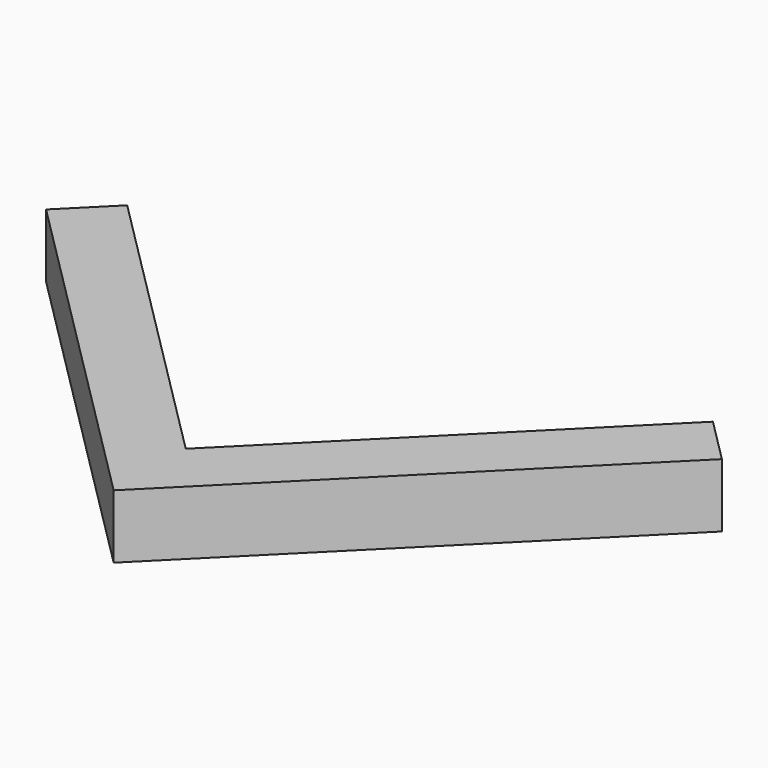
from build123d import *

# Parameters (mm, degrees)
BOX095_W                  = 7.5
BOX095_H                  = 1
BOX095_DEPTH              = 1
BOX093_W                  = 7.5
BOX093_H                  = 1
BOX093_DEPTH              = 1
FUSION021_PLACEMENT_ANGLE = 45


with BuildPart() as cube095:
    # Box095 → Box095 (new body)
    with BuildSketch(Plane.XY):
        with Locations((3.75, 0.5)):
            Rectangle(BOX095_W, BOX095_H)
    extrude(amount=BOX095_DEPTH)


with BuildPart() as obj1:
    # Box093 → Box093 (new body)
    with BuildSketch(Plane(origin=(1, 0, 0), x_dir=(0, 1, 0), z_dir=(0, 0, 1))):
        with Locations((3.75, 0.5)):
            Rectangle(BOX093_W, BOX093_H)
    extrude(amount=BOX093_DEPTH)

    # Fusion021: union Cube095
    add(cube095.part)


with BuildPart() as obj1_1:
    # Fusion021 placement: moved
    add(obj1.part.moved(Location((0, -15, 0))).rotate(Axis((0, -15, 0), (0, 0, 1)), FUSION021_PLACEMENT_ANGLE))


solid = obj1_1.part
